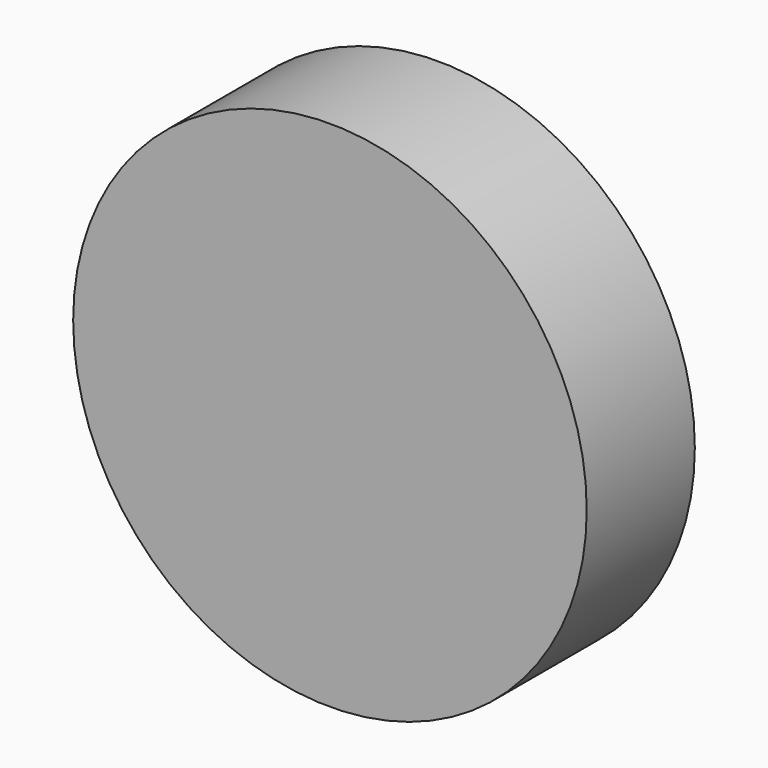
from build123d import *

# Parameters (mm, degrees)
F0_W = 38
F0_H = 20
F2_T = -2


with BuildPart() as f1:
    # F0 (on Top) → F1 (revolve)
    with BuildSketch(Plane.XY):
        with Locations((-19, -10)):
            Rectangle(F0_W, F0_H)
    revolve(axis=Axis((0, -10, 0), (0, -1, 0)))

    # F2
    f2_openings = [f1.faces().sort_by_distance(p)[0] for p in [
        (0, 0, 0),
    ]]
    offset(amount=F2_T, openings=f2_openings)


solid = f1.part
